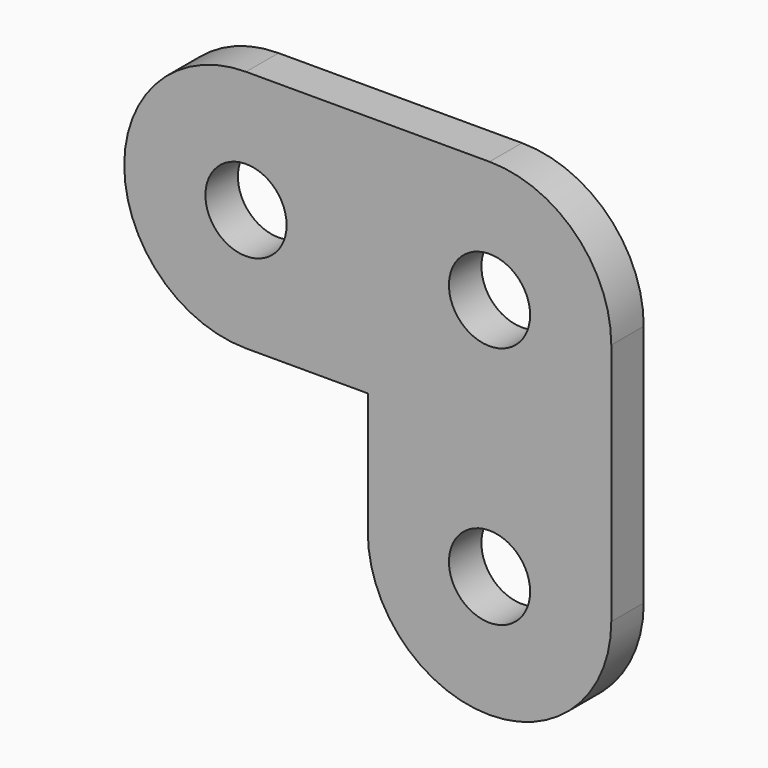
from build123d import *

# Parameters (mm, degrees)
F0_R     = 5
F1_DEPTH = 5


with BuildPart() as f1:
    # F0 (on Front) → F1 (new body)
    with BuildSketch(Plane.XZ):
        with BuildLine():
            Line((45, 0), (15, 0))
            ThreePointArc((15, 0), (0, -15), (15, -30))
            Line((15, -30), (30, -30))
            Line((30, -30), (30, -45))
            ThreePointArc((30, -45), (45, -60), (60, -45))
            Line((60, -45), (60, -15))
            ThreePointArc((60, -15), (55.606602, -4.393398), (45, 0))
        make_face()
        with Locations((45, -45)):
            Circle(F0_R, mode=Mode.SUBTRACT)
        with Locations((15, -15)):
            Circle(F0_R, mode=Mode.SUBTRACT)
        with Locations((45, -15)):
            Circle(F0_R, mode=Mode.SUBTRACT)
    extrude(amount=F1_DEPTH)


solid = f1.part
